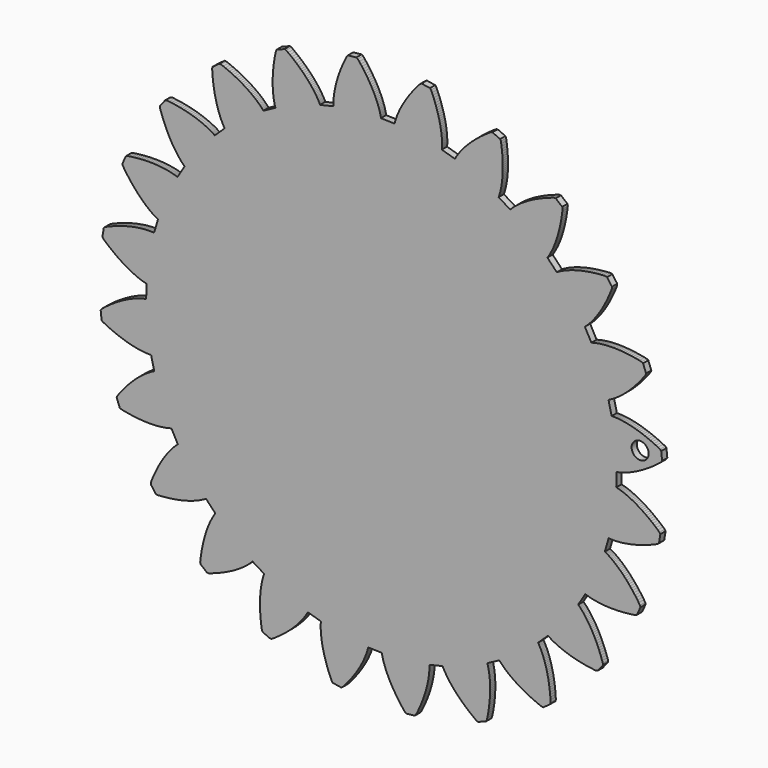
from build123d import *

# Parameters (mm, degrees)
F0_R     = 65.94409
F1_DEPTH = 50.8


with BuildPart() as f1:
    # F0 (on Front) → F1 (new body)
    with BuildSketch(Plane.XZ):
        Polygon((1822.913017, 0), (1823.53265, 3.17406), (1828.204675, 4.03291), (1833.236262, 5.034255), (1838.624009, 6.188151), (1844.364587, 7.50537), (1850.455303, 8.995943), (1856.890774, 10.670667), (1863.667647, 12.54031), (1870.781882, 14.61422), (1878.228095, 16.903192), (1886.001613, 19.416624), (1894.097685, 22.165945), (1902.510978, 25.159233), (1911.236106, 28.407208), (1920.267, 31.919951), (1929.5983, 35.706253), (1939.223274, 39.776121), (1949.135878, 44.138342), (1959.330092, 48.802315), (1969.797813, 53.776778), (1980.533682, 59.071789), (1991.528935, 64.694765), (2002.777579, 70.655104), (2014.271511, 76.961543), (2026.002679, 83.621474), (2037.963666, 90.64432), (2050.14576, 98.037447), (2062.540909, 105.808247), (2075.141671, 113.965507), (2087.937353, 122.516544), (2100.920538, 131.468139), (2114.082462, 140.827684), (2127.412408, 150.602518), (2140.902297, 160.799399), (2154.542732, 171.424397), (2168.322943, 182.484852), (2175.556812, 193.393441), (2168.787992, 258.470578), (2159.464083, 267.656716), (2143.702698, 275.64461), (2128.167778, 283.235324), (2112.868088, 290.437595), (2097.811654, 297.260162), (2083.005232, 303.711077), (2068.45822, 309.798441), (2054.176003, 315.532973), (2040.166608, 320.922752), (2026.437476, 325.976488), (2012.993967, 330.703631), (1999.844108, 335.114925), (1986.993334, 339.218397), (1974.447664, 343.024181), (1962.21383, 346.542309), (1950.29582, 349.782232), (1938.700415, 352.754006), (1927.432975, 355.468377), (1916.497513, 357.934108), (1905.899414, 360.163262), (1895.642716, 362.164605), (1885.732119, 363.949539), (1876.17166, 365.528835), (1866.964668, 366.91189), (1858.115232, 368.109475), (1849.626679, 369.133679), (1841.502362, 369.993875), (1833.744313, 370.700884), (1826.355885, 371.26672), (1819.33911, 371.701543), (1812.696654, 372.016045), (1806.429864, 372.221023), (1800.540747, 372.328567), (1795.030675, 372.348709), (1789.900992, 372.293617), (1785.152335, 372.172636), (1783.892927, 375.151142), (1760.798891, 471.804848), (1760.576464, 475.030648), (1764.866092, 477.069607), (1769.466895, 479.339097), (1774.372804, 481.84849), (1779.577086, 484.606549), (1785.073722, 487.622672), (1790.856642, 490.906283), (1796.919114, 494.465407), (1803.253798, 498.310154), (1809.853911, 502.448601), (1816.712089, 506.88809), (1823.82094, 511.638753), (1831.173097, 516.707984), (1838.759772, 522.103807), (1846.57426, 527.834301), (1854.607187, 533.906197), (1862.851113, 540.328231), (1871.297324, 547.10777), (1879.936423, 554.250911), (1888.760332, 561.765679), (1897.759654, 569.658805), (1906.924939, 577.936335), (1916.247501, 586.604999), (1925.717256, 595.670843), (1935.325441, 605.140598), (1945.060626, 615.019598), (1954.914785, 625.313278), (1964.876436, 636.028294), (1974.936233, 647.168734), (1985.083406, 658.739958), (1995.30716, 670.746639), (2005.597462, 683.193528), (2015.944228, 696.085984), (2026.335317, 709.426674), (2036.760036, 723.220321), (2047.208275, 737.470306), (2051.37225, 749.878866), (2027.991245, 810.986948), (2016.607524, 817.447286), (1999.315229, 821.083042), (1982.345489, 824.394846), (1965.703054, 827.392173), (1949.393942, 830.08437), (1933.422879, 832.483552), (1917.795225, 834.599144), (1902.515677, 836.441202), (1887.58896, 838.021184), (1873.019114, 839.349807), (1858.810811, 840.436495), (1844.967405, 841.294025), (1831.492298, 841.931108), (1818.388845, 842.360545), (1805.661032, 842.592397), (1793.310917, 842.637431), (1781.341878, 842.507053), (1769.755185, 842.212032), (1758.554268, 841.763772), (1747.740447, 841.17373), (1737.315067, 840.452624), (1727.280137, 839.611884), (1717.636341, 838.662305), (1708.385687, 837.615267), (1699.527513, 836.482198), (1691.063826, 835.273869), (1682.993281, 834.002371), (1675.316538, 832.677761), (1668.033621, 831.31152), (1661.143185, 829.915688), (1654.645891, 828.50035), (1648.539045, 827.076299), (1642.823334, 825.656286), (1637.495379, 824.249685), (1632.555206, 822.868662), (1627.999436, 821.523224), (1626.011531, 824.073612), (1578.689045, 911.456521), (1577.638653, 914.51496), (1581.254902, 917.594939), (1585.11174, 920.97799), (1589.201114, 924.670871), (1593.514288, 928.682293), (1598.043184, 933.018302), (1602.779065, 937.686974), (1607.713193, 942.69367), (1612.837491, 948.047151), (1618.141265, 953.752118), (1623.617047, 959.816622), (1629.254146, 966.244702), (1635.04311, 973.043749), (1640.975204, 980.219807), (1647.040394, 987.776917), (1653.227885, 995.721808), (1659.528939, 1004.058469), (1665.932152, 1012.792996), (1672.4281, 1021.928741), (1679.006726, 1031.471064), (1685.656573, 1041.424003), (1692.367583, 1051.791572), (1699.128326, 1062.57786), (1705.92938, 1073.786168), (1712.758678, 1085.419876), (1719.606111, 1097.482336), (1726.45959, 1109.975606), (1733.30903, 1122.903672), (1740.142341, 1136.267882), (1746.948779, 1150.070954), (1753.716914, 1164.314867), (1760.435316, 1179.001681), (1767.091894, 1194.132029), (1773.676564, 1209.707258), (1780.176551, 1225.7294), (1786.580425, 1242.198455), (1787.390253, 1255.261599), (1748.989771, 1308.235966), (1736.322461, 1311.529635), (1718.678681, 1310.566594), (1701.429389, 1309.373048), (1684.578622, 1307.960427), (1668.127703, 1306.340136), (1652.080033, 1304.524264), (1636.437596, 1302.522262), (1621.201736, 1300.347539), (1606.375146, 1298.01018), (1591.957827, 1295.522276), (1577.952496, 1292.895255), (1564.358441, 1290.139889), (1551.17767, 1287.268266), (1538.410233, 1284.291793), (1526.055419, 1281.221237), (1514.114574, 1278.068005), (1502.587038, 1274.844237), (1491.47149, 1271.560627), (1480.76854, 1268.229315), (1470.475545, 1264.860386), (1460.592507, 1261.465219), (1451.116732, 1258.055955), (1442.04751, 1254.642652), (1433.382884, 1251.236741), (1425.120137, 1247.849651), (1417.257237, 1244.492126), (1409.790856, 1241.174937), (1402.718302, 1237.908827), (1396.037543, 1234.704516), (1389.743195, 1231.572137), (1383.83325, 1228.52307), (1378.303695, 1225.56811), (1373.149806, 1222.71663), (1368.367571, 1219.979424), (1363.952924, 1217.365841), (1359.901166, 1214.887359), (1357.320526, 1216.836936), (1288.994069, 1288.994069), (1287.188282, 1291.676843), (1289.883857, 1295.587452), (1292.733965, 1299.853585), (1295.727914, 1304.479255), (1298.855594, 1309.469822), (1302.108292, 1314.830695), (1305.474529, 1320.565228), (1308.944956, 1326.679465), (1312.508805, 1333.176099), (1316.155305, 1340.059829), (1319.874373, 1347.334008), (1323.655951, 1355.002675), (1327.487947, 1363.068521), (1331.360914, 1371.5349), (1335.262785, 1380.404504), (1339.184139, 1389.680025), (1343.112224, 1399.36347), (1347.036955, 1409.457532), (1350.946904, 1419.963556), (1354.831301, 1430.883575), (1358.678741, 1442.218223), (1362.477793, 1453.969533), (1366.217029, 1466.13819), (1369.885017, 1478.724856), (1373.47038, 1491.729554), (1376.962296, 1505.152895), (1380.348725, 1518.994955), (1383.618874, 1533.254998), (1386.760676, 1547.932388), (1389.762676, 1563.027125), (1392.613471, 1578.537153), (1395.301654, 1594.461861), (1397.815746, 1610.799877), (1400.144368, 1627.549171), (1402.276088, 1644.707048), (1404.199478, 1662.272215), (1401.600702, 1675.100815), (1350.798365, 1716.331238), (1337.709694, 1716.233804), (1320.916053, 1710.736507), (1304.563914, 1705.119577), (1288.652668, 1699.393782), (1273.182264, 1693.571213), (1258.151383, 1687.6633), (1243.560022, 1681.681447), (1229.406152, 1675.637111), (1215.68911, 1669.542356), (1202.407552, 1663.407976), (1189.558784, 1657.244666), (1177.141461, 1651.065253), (1165.152915, 1644.879768), (1153.591114, 1638.700355), (1142.45202, 1632.536384), (1131.734287, 1626.400633), (1121.433901, 1620.303211), (1111.546824, 1614.254836), (1102.070389, 1608.266278), (1093.000506, 1602.348281), (1084.332502, 1596.510929), (1076.062364, 1590.764967), (1068.186027, 1585.121163), (1060.697472, 1579.588916), (1053.593321, 1574.17897), (1046.866867, 1568.900088), (1040.513388, 1563.763675), (1034.527497, 1558.778467), (1028.903175, 1553.95389), (1023.634376, 1549.299314), (1018.715031, 1544.824876), (1014.138434, 1540.539261), (1009.898514, 1536.450547), (1005.987904, 1532.568842), (1002.399875, 1528.902175), (999.127694, 1525.459306), (996.130393, 1526.674366), (911.456521, 1578.689045), (909.017664, 1580.812688), (910.609736, 1585.288498), (912.258247, 1590.14602), (913.952477, 1595.389291), (915.682319, 1601.019658), (917.436341, 1607.039128), (919.2038, 1613.449732), (920.973977, 1620.253478), (922.734705, 1627.451711), (924.475291, 1635.044457), (926.184965, 1643.033671), (927.852983, 1651.419405), (929.467229, 1660.202318), (931.016274, 1669.382412), (932.490083, 1678.960345), (933.876491, 1688.934113), (935.164805, 1699.304399), (936.343568, 1710.070494), (937.401351, 1721.230441), (938.326749, 1732.783504), (939.109018, 1744.727702), (939.737364, 1757.062348), (940.199745, 1769.784091), (940.484682, 1782.890922), (940.582803, 1796.380812), (940.48133, 1810.250405), (940.170154, 1824.497011), (939.637897, 1839.117302), (938.873789, 1854.107849), (937.8664, 1869.465349), (936.605645, 1885.185079), (935.080782, 1901.263), (933.281065, 1917.694412), (931.195039, 1934.475303), (928.813332, 1951.600948), (926.124488, 1969.065277), (920.294527, 1980.783669), (860.551365, 2007.460374), (847.934448, 2003.979203), (833.136104, 1994.323291), (818.79473, 1984.664712), (804.907661, 1975.016218), (791.470858, 1965.387865), (778.481654, 1955.79111), (765.935298, 1946.236697), (753.828464, 1936.73537), (742.156453, 1927.297212), (730.91454, 1917.93434), (720.099373, 1908.656127), (709.704219, 1899.473341), (699.725067, 1890.396092), (690.156557, 1881.433728), (680.992593, 1872.597728), (672.227815, 1863.896806), (663.856203, 1855.341044), (655.872348, 1846.939867), (648.268198, 1838.702647), (641.039053, 1830.638808), (634.177497, 1822.757111), (627.676164, 1815.066931), (621.529008, 1807.57637), (615.727267, 1800.294799), (610.265582, 1793.229611), (605.134553, 1786.390255), (600.327425, 1779.784756), (595.835511, 1773.419847), (591.651369, 1767.303577), (587.766973, 1761.444737), (584.172898, 1755.84932), (580.861754, 1750.524718), (577.824117, 1745.478373), (575.051936, 1740.71694), (572.535152, 1736.24654), (570.264976, 1732.073828), (567.055991, 1732.472354), (471.804848, 1760.798891), (468.899596, 1762.218929), (469.27864, 1766.954124), (469.61331, 1772.073062), (469.893548, 1777.575744), (470.107264, 1783.462168), (470.243687, 1789.730965), (470.291389, 1796.380812), (470.239649, 1803.410363), (470.077698, 1810.818959), (469.794082, 1818.603881), (469.378106, 1826.763149), (468.81829, 1835.294729), (468.103915, 1844.195905), (467.224872, 1853.464695), (466.169096, 1863.097087), (464.927163, 1873.090336), (463.487643, 1883.440455), (461.839132, 1894.144726), (459.972867, 1905.198476), (457.876783, 1916.59698), (455.540745, 1928.33686), (452.955406, 1940.413467), (450.109311, 1952.821367), (446.992375, 1965.555886), (443.595887, 1978.610953), (439.907731, 1991.981894), (435.919829, 2005.662664), (431.621438, 2019.647167), (427.003845, 2033.929409), (422.056281, 2048.502634), (416.770007, 2063.36011), (411.135601, 2078.495843), (405.144351, 2093.90173), (398.786172, 2109.571041), (392.052988, 2125.496409), (384.93606, 2141.669783), (376.272095, 2151.480228), (311.660007, 2161.785339), (300.37372, 2155.15698), (288.578722, 2141.999755), (277.225912, 2128.958785), (266.309272, 2116.044815), (255.822729, 2103.266634), (245.75958, 2090.634935), (236.113777, 2078.15848), (226.878566, 2065.847354), (218.046605, 2053.710955), (209.611824, 2041.757334), (201.565459, 2029.99594), (193.901492, 2018.435486), (186.61187, 2007.084022), (179.68915, 1995.950974), (173.124647, 1985.044417), (166.910283, 1974.371718), (161.038667, 1963.940294), (155.500349, 1953.758856), (150.288015, 1943.834822), (145.392191, 1934.174211), (140.804163, 1924.785127), (136.515196, 1915.674248), (132.515204, 1906.848333), (128.796796, 1898.313399), (125.349203, 1890.075519), (122.163053, 1882.140737), (119.229607, 1874.515733), (116.53807, 1867.205283), (114.079757, 1860.215355), (111.843871, 1853.550065), (109.821015, 1847.215381), (108.000444, 1841.215393), (106.372101, 1835.5548), (104.926536, 1830.237615), (103.652345, 1825.268536), (102.54013, 1820.650258), (99.337165, 1820.204691), (0, 1822.913017), (-3.17406, 1823.53265), (-4.03291, 1828.204675), (-5.034255, 1833.236262), (-6.188151, 1838.624009), (-7.50537, 1844.364587), (-8.995943, 1850.455303), (-10.670667, 1856.890774), (-12.54031, 1863.667647), (-14.61422, 1870.781882), (-16.903192, 1878.228095), (-19.416624, 1886.001613), (-22.165945, 1894.097685), (-25.159233, 1902.510978), (-28.407208, 1911.236106), (-31.919951, 1920.267), (-35.706253, 1929.5983), (-39.776121, 1939.223274), (-44.138342, 1949.135878), (-48.802315, 1959.330092), (-53.776778, 1969.797813), (-59.071789, 1980.533682), (-64.694765, 1991.528935), (-70.655104, 2002.777579), (-76.961543, 2014.271511), (-83.621474, 2026.002679), (-90.64432, 2037.963666), (-98.037447, 2050.14576), (-105.808247, 2062.540909), (-113.965507, 2075.141671), (-122.516544, 2087.937353), (-131.468139, 2100.920538), (-140.827684, 2114.082462), (-150.602518, 2127.412408), (-160.799399, 2140.902297), (-171.424397, 2154.542732), (-182.484852, 2168.322943), (-193.393441, 2175.556812), (-258.470578, 2168.787992), (-267.656716, 2159.464083), (-275.64461, 2143.702698), (-283.235324, 2128.167778), (-290.437595, 2112.868088), (-297.260162, 2097.811654), (-303.711077, 2083.005232), (-309.798441, 2068.45822), (-315.532973, 2054.176003), (-320.922752, 2040.166608), (-325.976488, 2026.437476), (-330.703631, 2012.993967), (-335.114925, 1999.844108), (-339.218397, 1986.993334), (-343.024181, 1974.447664), (-346.542309, 1962.21383), (-349.782232, 1950.29582), (-352.754006, 1938.700415), (-355.468377, 1927.432975), (-357.934108, 1916.497513), (-360.163262, 1905.899414), (-362.164605, 1895.642716), (-363.949539, 1885.732119), (-365.528835, 1876.17166), (-366.91189, 1866.964668), (-368.109475, 1858.115232), (-369.133679, 1849.626679), (-369.993875, 1841.502362), (-370.700884, 1833.744313), (-371.26672, 1826.355885), (-371.701543, 1819.33911), (-372.016045, 1812.696654), (-372.221023, 1806.429864), (-372.328567, 1800.540747), (-372.348709, 1795.030675), (-372.293617, 1789.900992), (-372.172636, 1785.152335), (-375.151142, 1783.892927), (-471.804848, 1760.798891), (-475.030648, 1760.576464), (-477.069607, 1764.866092), (-479.339097, 1769.466895), (-481.84849, 1774.372804), (-484.606549, 1779.577086), (-487.622672, 1785.073722), (-490.906283, 1790.856642), (-494.465407, 1796.919114), (-498.310154, 1803.253798), (-502.448601, 1809.853911), (-506.88809, 1816.712089), (-511.638753, 1823.82094), (-516.707984, 1831.173097), (-522.103807, 1838.759772), (-527.834301, 1846.57426), (-533.906197, 1854.607187), (-540.328231, 1862.851113), (-547.10777, 1871.297324), (-554.250911, 1879.936423), (-561.765679, 1888.760332), (-569.658805, 1897.759654), (-577.936335, 1906.924939), (-586.604999, 1916.247501), (-595.670843, 1925.717256), (-605.140598, 1935.325441), (-615.019598, 1945.060626), (-625.313278, 1954.914785), (-636.028294, 1964.876436), (-647.168734, 1974.936233), (-658.739958, 1985.083406), (-670.746639, 1995.30716), (-683.193528, 2005.597462), (-696.085984, 2015.944228), (-709.426674, 2026.335317), (-723.220321, 2036.760036), (-737.470306, 2047.208275), (-749.878866, 2051.37225), (-810.986948, 2027.991245), (-817.447286, 2016.607524), (-821.083042, 1999.315229), (-824.394846, 1982.345489), (-827.392173, 1965.703054), (-830.08437, 1949.393942), (-832.483552, 1933.422879), (-834.599144, 1917.795225), (-836.441202, 1902.515677), (-838.021184, 1887.58896), (-839.349807, 1873.019114), (-840.436495, 1858.810811), (-841.294025, 1844.967405), (-841.931108, 1831.492298), (-842.360545, 1818.388845), (-842.592397, 1805.661032), (-842.637431, 1793.310917), (-842.507053, 1781.341878), (-842.212032, 1769.755185), (-841.763772, 1758.554268), (-841.17373, 1747.740447), (-840.452624, 1737.315067), (-839.611884, 1727.280137), (-838.662305, 1717.636341), (-837.615267, 1708.385687), (-836.482198, 1699.527513), (-835.273869, 1691.063826), (-834.002371, 1682.993281), (-832.677761, 1675.316538), (-831.31152, 1668.033621), (-829.915688, 1661.143185), (-828.50035, 1654.645891), (-827.076299, 1648.539045), (-825.656286, 1642.823334), (-824.249685, 1637.495379), (-822.868662, 1632.555206), (-821.523224, 1627.999436), (-824.073612, 1626.011531), (-911.456521, 1578.689045), (-914.51496, 1577.638653), (-917.594939, 1581.254902), (-920.97799, 1585.11174), (-924.670871, 1589.201114), (-928.682293, 1593.514288), (-933.018302, 1598.043184), (-937.686974, 1602.779065), (-942.69367, 1607.713193), (-948.047151, 1612.837491), (-953.752118, 1618.141265), (-959.816622, 1623.617047), (-966.244702, 1629.254146), (-973.043749, 1635.04311), (-980.219807, 1640.975204), (-987.776917, 1647.040394), (-995.721808, 1653.227885), (-1004.058469, 1659.528939), (-1012.792996, 1665.932152), (-1021.928741, 1672.4281), (-1031.471064, 1679.006726), (-1041.424003, 1685.656573), (-1051.791572, 1692.367583), (-1062.57786, 1699.128326), (-1073.786168, 1705.92938), (-1085.419876, 1712.758678), (-1097.482336, 1719.606111), (-1109.975606, 1726.45959), (-1122.903672, 1733.30903), (-1136.267882, 1740.142341), (-1150.070954, 1746.948779), (-1164.314867, 1753.716914), (-1179.001681, 1760.435316), (-1194.132029, 1767.091894), (-1209.707258, 1773.676564), (-1225.7294, 1780.176551), (-1242.198455, 1786.580425), (-1255.261599, 1787.390253), (-1308.235966, 1748.989771), (-1311.529635, 1736.322461), (-1310.566594, 1718.678681), (-1309.373048, 1701.429389), (-1307.960427, 1684.578622), (-1306.340136, 1668.127703), (-1304.524264, 1652.080033), (-1302.522262, 1636.437596), (-1300.347539, 1621.201736), (-1298.01018, 1606.375146), (-1295.522276, 1591.957827), (-1292.895255, 1577.952496), (-1290.139889, 1564.358441), (-1287.268266, 1551.17767), (-1284.291793, 1538.410233), (-1281.221237, 1526.055419), (-1278.068005, 1514.114574), (-1274.844237, 1502.587038), (-1271.560627, 1491.47149), (-1268.229315, 1480.76854), (-1264.860386, 1470.475545), (-1261.465219, 1460.592507), (-1258.055955, 1451.116732), (-1254.642652, 1442.04751), (-1251.236741, 1433.382884), (-1247.849651, 1425.120137), (-1244.492126, 1417.257237), (-1241.174937, 1409.790856), (-1237.908827, 1402.718302), (-1234.704516, 1396.037543), (-1231.572137, 1389.743195), (-1228.52307, 1383.83325), (-1225.56811, 1378.303695), (-1222.71663, 1373.149806), (-1219.979424, 1368.367571), (-1217.365841, 1363.952924), (-1214.887359, 1359.901166), (-1216.836936, 1357.320526), (-1288.994069, 1288.994069), (-1291.676843, 1287.188282), (-1295.587452, 1289.883857), (-1299.853585, 1292.733965), (-1304.479255, 1295.727914), (-1309.469822, 1298.855594), (-1314.830695, 1302.108292), (-1320.565228, 1305.474529), (-1326.679465, 1308.944956), (-1333.176099, 1312.508805), (-1340.059829, 1316.155305), (-1347.334008, 1319.874373), (-1355.002675, 1323.655951), (-1363.068521, 1327.487947), (-1371.5349, 1331.360914), (-1380.404504, 1335.262785), (-1389.680025, 1339.184139), (-1399.36347, 1343.112224), (-1409.457532, 1347.036955), (-1419.963556, 1350.946904), (-1430.883575, 1354.831301), (-1442.218223, 1358.678741), (-1453.969533, 1362.477793), (-1466.13819, 1366.217029), (-1478.724856, 1369.885017), (-1491.729554, 1373.47038), (-1505.152895, 1376.962296), (-1518.994955, 1380.348725), (-1533.254998, 1383.618874), (-1547.932388, 1386.760676), (-1563.027125, 1389.762676), (-1578.537153, 1392.613471), (-1594.461861, 1395.301654), (-1610.799877, 1397.815746), (-1627.549171, 1400.144368), (-1644.707048, 1402.276088), (-1662.272215, 1404.199478), (-1675.100815, 1401.600702), (-1716.331238, 1350.798365), (-1716.233804, 1337.709694), (-1710.736507, 1320.916053), (-1705.119577, 1304.563914), (-1699.393782, 1288.652668), (-1693.571213, 1273.182264), (-1687.6633, 1258.151383), (-1681.681447, 1243.560022), (-1675.637111, 1229.406152), (-1669.542356, 1215.68911), (-1663.407976, 1202.407552), (-1657.244666, 1189.558784), (-1651.065253, 1177.141461), (-1644.879768, 1165.152915), (-1638.700355, 1153.591114), (-1632.536384, 1142.45202), (-1626.400633, 1131.734287), (-1620.303211, 1121.433901), (-1614.254836, 1111.546824), (-1608.266278, 1102.070389), (-1602.348281, 1093.000506), (-1596.510929, 1084.332502), (-1590.764967, 1076.062364), (-1585.121163, 1068.186027), (-1579.588916, 1060.697472), (-1574.17897, 1053.593321), (-1568.900088, 1046.866867), (-1563.763675, 1040.513388), (-1558.778467, 1034.527497), (-1553.95389, 1028.903175), (-1549.299314, 1023.634376), (-1544.824876, 1018.715031), (-1540.539261, 1014.138434), (-1536.450547, 1009.898514), (-1532.568842, 1005.987904), (-1528.902175, 1002.399875), (-1525.459306, 999.127694), (-1526.674366, 996.130393), (-1578.689045, 911.456521), (-1580.812688, 909.017664), (-1585.288498, 910.609736), (-1590.14602, 912.258247), (-1595.389291, 913.952477), (-1601.019658, 915.682319), (-1607.039128, 917.436341), (-1613.449732, 919.2038), (-1620.253478, 920.973977), (-1627.451711, 922.734705), (-1635.044457, 924.475291), (-1643.033671, 926.184965), (-1651.419405, 927.852983), (-1660.202318, 929.467229), (-1669.382412, 931.016274), (-1678.960345, 932.490083), (-1688.934113, 933.876491), (-1699.304399, 935.164805), (-1710.070494, 936.343568), (-1721.230441, 937.401351), (-1732.783504, 938.326749), (-1744.727702, 939.109018), (-1757.062348, 939.737364), (-1769.784091, 940.199745), (-1782.890922, 940.484682), (-1796.380812, 940.582803), (-1810.250405, 940.48133), (-1824.497011, 940.170154), (-1839.117302, 939.637897), (-1854.107849, 938.873789), (-1869.465349, 937.8664), (-1885.185079, 936.605645), (-1901.263, 935.080782), (-1917.694412, 933.281065), (-1934.475303, 931.195039), (-1951.600948, 928.813332), (-1969.065277, 926.124488), (-1980.783669, 920.294527), (-2007.460374, 860.551365), (-2003.979203, 847.934448), (-1994.323291, 833.136104), (-1984.664712, 818.79473), (-1975.016218, 804.907661), (-1965.387865, 791.470858), (-1955.79111, 778.481654), (-1946.236697, 765.935298), (-1936.73537, 753.828464), (-1927.297212, 742.156453), (-1917.93434, 730.91454), (-1908.656127, 720.099373), (-1899.473341, 709.704219), (-1890.396092, 699.725067), (-1881.433728, 690.156557), (-1872.597728, 680.992593), (-1863.896806, 672.227815), (-1855.341044, 663.856203), (-1846.939867, 655.872348), (-1838.702647, 648.268198), (-1830.638808, 641.039053), (-1822.757111, 634.177497), (-1815.066931, 627.676164), (-1807.57637, 621.529008), (-1800.294799, 615.727267), (-1793.229611, 610.265582), (-1786.390255, 605.134553), (-1779.784756, 600.327425), (-1773.419847, 595.835511), (-1767.303577, 591.651369), (-1761.444737, 587.766973), (-1755.84932, 584.172898), (-1750.524718, 580.861754), (-1745.478373, 577.824117), (-1740.71694, 575.051936), (-1736.24654, 572.535152), (-1732.073828, 570.264976), (-1732.472354, 567.055991), (-1760.798891, 471.804848), (-1762.218929, 468.899596), (-1766.954124, 469.27864), (-1772.073062, 469.61331), (-1777.575744, 469.893548), (-1783.462168, 470.107264), (-1789.730965, 470.243687), (-1796.380812, 470.291389), (-1803.410363, 470.239649), (-1810.818959, 470.077698), (-1818.603881, 469.794082), (-1826.763149, 469.378106), (-1835.294729, 468.81829), (-1844.195905, 468.103915), (-1853.464695, 467.224872), (-1863.097087, 466.169096), (-1873.090336, 464.927163), (-1883.440455, 463.487643), (-1894.144726, 461.839132), (-1905.198476, 459.972867), (-1916.59698, 457.876783), (-1928.33686, 455.540745), (-1940.413467, 452.955406), (-1952.821367, 450.109311), (-1965.555886, 446.992375), (-1978.610953, 443.595887), (-1991.981894, 439.907731), (-2005.662664, 435.919829), (-2019.647167, 431.621438), (-2033.929409, 427.003845), (-2048.502634, 422.056281), (-2063.36011, 416.770007), (-2078.495843, 411.135601), (-2093.90173, 405.144351), (-2109.571041, 398.786172), (-2125.496409, 392.052988), (-2141.669783, 384.93606), (-2151.480228, 376.272095), (-2161.785339, 311.660007), (-2155.15698, 300.37372), (-2141.999755, 288.578722), (-2128.958785, 277.225912), (-2116.044815, 266.309272), (-2103.266634, 255.822729), (-2090.634935, 245.75958), (-2078.15848, 236.113777), (-2065.847354, 226.878566), (-2053.710955, 218.046605), (-2041.757334, 209.611824), (-2029.99594, 201.565459), (-2018.435486, 193.901492), (-2007.084022, 186.61187), (-1995.950974, 179.68915), (-1985.044417, 173.124647), (-1974.371718, 166.910283), (-1963.940294, 161.038667), (-1953.758856, 155.500349), (-1943.834822, 150.288015), (-1934.174211, 145.392191), (-1924.785127, 140.804163), (-1915.674248, 136.515196), (-1906.848333, 132.515204), (-1898.313399, 128.796796), (-1890.075519, 125.349203), (-1882.140737, 122.163053), (-1874.515733, 119.229607), (-1867.205283, 116.53807), (-1860.215355, 114.079757), (-1853.550065, 111.843871), (-1847.215381, 109.821015), (-1841.215393, 108.000444), (-1835.5548, 106.372101), (-1830.237615, 104.926536), (-1825.268536, 103.652345), (-1820.650258, 102.54013), (-1820.204691, 99.337165), (-1822.913017, 0), (-1823.53265, -3.17406), (-1828.204675, -4.03291), (-1833.236262, -5.034255), (-1838.624009, -6.188151), (-1844.364587, -7.50537), (-1850.455303, -8.995943), (-1856.890774, -10.670667), (-1863.667647, -12.54031), (-1870.781882, -14.61422), (-1878.228095, -16.903192), (-1886.001613, -19.416624), (-1894.097685, -22.165945), (-1902.510978, -25.159233), (-1911.236106, -28.407208), (-1920.267, -31.919951), (-1929.5983, -35.706253), (-1939.223274, -39.776121), (-1949.135878, -44.138342), (-1959.330092, -48.802315), (-1969.797813, -53.776778), (-1980.533682, -59.071789), (-1991.528935, -64.694765), (-2002.777579, -70.655104), (-2014.271511, -76.961543), (-2026.002679, -83.621474), (-2037.963666, -90.64432), (-2050.14576, -98.037447), (-2062.540909, -105.808247), (-2075.141671, -113.965507), (-2087.937353, -122.516544), (-2100.920538, -131.468139), (-2114.082462, -140.827684), (-2127.412408, -150.602518), (-2140.902297, -160.799399), (-2154.542732, -171.424397), (-2168.322943, -182.484852), (-2175.556812, -193.393441), (-2168.787992, -258.470578), (-2159.464083, -267.656716), (-2143.702698, -275.64461), (-2128.167778, -283.235324), (-2112.868088, -290.437595), (-2097.811654, -297.260162), (-2083.005232, -303.711077), (-2068.45822, -309.798441), (-2054.176003, -315.532973), (-2040.166608, -320.922752), (-2026.437476, -325.976488), (-2012.993967, -330.703631), (-1999.844108, -335.114925), (-1986.993334, -339.218397), (-1974.447664, -343.024181), (-1962.21383, -346.542309), (-1950.29582, -349.782232), (-1938.700415, -352.754006), (-1927.432975, -355.468377), (-1916.497513, -357.934108), (-1905.899414, -360.163262), (-1895.642716, -362.164605), (-1885.732119, -363.949539), (-1876.17166, -365.528835), (-1866.964668, -366.91189), (-1858.115232, -368.109475), (-1849.626679, -369.133679), (-1841.502362, -369.993875), (-1833.744313, -370.700884), (-1826.355885, -371.26672), (-1819.33911, -371.701543), (-1812.696654, -372.016045), (-1806.429864, -372.221023), (-1800.540747, -372.328567), (-1795.030675, -372.348709), (-1789.900992, -372.293617), (-1785.152335, -372.172636), (-1783.892927, -375.151142), (-1760.798891, -471.804848), (-1760.576464, -475.030648), (-1764.866092, -477.069607), (-1769.466895, -479.339097), (-1774.372804, -481.84849), (-1779.577086, -484.606549), (-1785.073722, -487.622672), (-1790.856642, -490.906283), (-1796.919114, -494.465407), (-1803.253798, -498.310154), (-1809.853911, -502.448601), (-1816.712089, -506.88809), (-1823.82094, -511.638753), (-1831.173097, -516.707984), (-1838.759772, -522.103807), (-1846.57426, -527.834301), (-1854.607187, -533.906197), (-1862.851113, -540.328231), (-1871.297324, -547.10777), (-1879.936423, -554.250911), (-1888.760332, -561.765679), (-1897.759654, -569.658805), (-1906.924939, -577.936335), (-1916.247501, -586.604999), (-1925.717256, -595.670843), (-1935.325441, -605.140598), (-1945.060626, -615.019598), (-1954.914785, -625.313278), (-1964.876436, -636.028294), (-1974.936233, -647.168734), (-1985.083406, -658.739958), (-1995.30716, -670.746639), (-2005.597462, -683.193528), (-2015.944228, -696.085984), (-2026.335317, -709.426674), (-2036.760036, -723.220321), (-2047.208275, -737.470306), (-2051.37225, -749.878866), (-2027.991245, -810.986948), (-2016.607524, -817.447286), (-1999.315229, -821.083042), (-1982.345489, -824.394846), (-1965.703054, -827.392173), (-1949.393942, -830.08437), (-1933.422879, -832.483552), (-1917.795225, -834.599144), (-1902.515677, -836.441202), (-1887.58896, -838.021184), (-1873.019114, -839.349807), (-1858.810811, -840.436495), (-1844.967405, -841.294025), (-1831.492298, -841.931108), (-1818.388845, -842.360545), (-1805.661032, -842.592397), (-1793.310917, -842.637431), (-1781.341878, -842.507053), (-1769.755185, -842.212032), (-1758.554268, -841.763772), (-1747.740447, -841.17373), (-1737.315067, -840.452624), (-1727.280137, -839.611884), (-1717.636341, -838.662305), (-1708.385687, -837.615267), (-1699.527513, -836.482198), (-1691.063826, -835.273869), (-1682.993281, -834.002371), (-1675.316538, -832.677761), (-1668.033621, -831.31152), (-1661.143185, -829.915688), (-1654.645891, -828.50035), (-1648.539045, -827.076299), (-1642.823334, -825.656286), (-1637.495379, -824.249685), (-1632.555206, -822.868662), (-1627.999436, -821.523224), (-1626.011531, -824.073612), (-1578.689045, -911.456521), (-1577.638653, -914.51496), (-1581.254902, -917.594939), (-1585.11174, -920.97799), (-1589.201114, -924.670871), (-1593.514288, -928.682293), (-1598.043184, -933.018302), (-1602.779065, -937.686974), (-1607.713193, -942.69367), (-1612.837491, -948.047151), (-1618.141265, -953.752118), (-1623.617047, -959.816622), (-1629.254146, -966.244702), (-1635.04311, -973.043749), (-1640.975204, -980.219807), (-1647.040394, -987.776917), (-1653.227885, -995.721808), (-1659.528939, -1004.058469), (-1665.932152, -1012.792996), (-1672.4281, -1021.928741), (-1679.006726, -1031.471064), (-1685.656573, -1041.424003), (-1692.367583, -1051.791572), (-1699.128326, -1062.57786), (-1705.92938, -1073.786168), (-1712.758678, -1085.419876), (-1719.606111, -1097.482336), (-1726.45959, -1109.975606), (-1733.30903, -1122.903672), (-1740.142341, -1136.267882), (-1746.948779, -1150.070954), (-1753.716914, -1164.314867), (-1760.435316, -1179.001681), (-1767.091894, -1194.132029), (-1773.676564, -1209.707258), (-1780.176551, -1225.7294), (-1786.580425, -1242.198455), (-1787.390253, -1255.261599), (-1748.989771, -1308.235966), (-1736.322461, -1311.529635), (-1718.678681, -1310.566594), (-1701.429389, -1309.373048), (-1684.578622, -1307.960427), (-1668.127703, -1306.340136), (-1652.080033, -1304.524264), (-1636.437596, -1302.522262), (-1621.201736, -1300.347539), (-1606.375146, -1298.01018), (-1591.957827, -1295.522276), (-1577.952496, -1292.895255), (-1564.358441, -1290.139889), (-1551.17767, -1287.268266), (-1538.410233, -1284.291793), (-1526.055419, -1281.221237), (-1514.114574, -1278.068005), (-1502.587038, -1274.844237), (-1491.47149, -1271.560627), (-1480.76854, -1268.229315), (-1470.475545, -1264.860386), (-1460.592507, -1261.465219), (-1451.116732, -1258.055955), (-1442.04751, -1254.642652), (-1433.382884, -1251.236741), (-1425.120137, -1247.849651), (-1417.257237, -1244.492126), (-1409.790856, -1241.174937), (-1402.718302, -1237.908827), (-1396.037543, -1234.704516), (-1389.743195, -1231.572137), (-1383.83325, -1228.52307), (-1378.303695, -1225.56811), (-1373.149806, -1222.71663), (-1368.367571, -1219.979424), (-1363.952924, -1217.365841), (-1359.901166, -1214.887359), (-1357.320526, -1216.836936), (-1288.994069, -1288.994069), (-1287.188282, -1291.676843), (-1289.883857, -1295.587452), (-1292.733965, -1299.853585), (-1295.727914, -1304.479255), (-1298.855594, -1309.469822), (-1302.108292, -1314.830695), (-1305.474529, -1320.565228), (-1308.944956, -1326.679465), (-1312.508805, -1333.176099), (-1316.155305, -1340.059829), (-1319.874373, -1347.334008), (-1323.655951, -1355.002675), (-1327.487947, -1363.068521), (-1331.360914, -1371.5349), (-1335.262785, -1380.404504), (-1339.184139, -1389.680025), (-1343.112224, -1399.36347), (-1347.036955, -1409.457532), (-1350.946904, -1419.963556), (-1354.831301, -1430.883575), (-1358.678741, -1442.218223), (-1362.477793, -1453.969533), (-1366.217029, -1466.13819), (-1369.885017, -1478.724856), (-1373.47038, -1491.729554), (-1376.962296, -1505.152895), (-1380.348725, -1518.994955), (-1383.618874, -1533.254998), (-1386.760676, -1547.932388), (-1389.762676, -1563.027125), (-1392.613471, -1578.537153), (-1395.301654, -1594.461861), (-1397.815746, -1610.799877), (-1400.144368, -1627.549171), (-1402.276088, -1644.707048), (-1404.199478, -1662.272215), (-1401.600702, -1675.100815), (-1350.798365, -1716.331238), (-1337.709694, -1716.233804), (-1320.916053, -1710.736507), (-1304.563914, -1705.119577), (-1288.652668, -1699.393782), (-1273.182264, -1693.571213), (-1258.151383, -1687.6633), (-1243.560022, -1681.681447), (-1229.406152, -1675.637111), (-1215.68911, -1669.542356), (-1202.407552, -1663.407976), (-1189.558784, -1657.244666), (-1177.141461, -1651.065253), (-1165.152915, -1644.879768), (-1153.591114, -1638.700355), (-1142.45202, -1632.536384), (-1131.734287, -1626.400633), (-1121.433901, -1620.303211), (-1111.546824, -1614.254836), (-1102.070389, -1608.266278), (-1093.000506, -1602.348281), (-1084.332502, -1596.510929), (-1076.062364, -1590.764967), (-1068.186027, -1585.121163), (-1060.697472, -1579.588916), (-1053.593321, -1574.17897), (-1046.866867, -1568.900088), (-1040.513388, -1563.763675), (-1034.527497, -1558.778467), (-1028.903175, -1553.95389), (-1023.634376, -1549.299314), (-1018.715031, -1544.824876), (-1014.138434, -1540.539261), (-1009.898514, -1536.450547), (-1005.987904, -1532.568842), (-1002.399875, -1528.902175), (-999.127694, -1525.459306), (-996.130393, -1526.674366), (-911.456521, -1578.689045), (-909.017664, -1580.812688), (-910.609736, -1585.288498), (-912.258247, -1590.14602), (-913.952477, -1595.389291), (-915.682319, -1601.019658), (-917.436341, -1607.039128), (-919.2038, -1613.449732), (-920.973977, -1620.253478), (-922.734705, -1627.451711), (-924.475291, -1635.044457), (-926.184965, -1643.033671), (-927.852983, -1651.419405), (-929.467229, -1660.202318), (-931.016274, -1669.382412), (-932.490083, -1678.960345), (-933.876491, -1688.934113), (-935.164805, -1699.304399), (-936.343568, -1710.070494), (-937.401351, -1721.230441), (-938.326749, -1732.783504), (-939.109018, -1744.727702), (-939.737364, -1757.062348), (-940.199745, -1769.784091), (-940.484682, -1782.890922), (-940.582803, -1796.380812), (-940.48133, -1810.250405), (-940.170154, -1824.497011), (-939.637897, -1839.117302), (-938.873789, -1854.107849), (-937.8664, -1869.465349), (-936.605645, -1885.185079), (-935.080782, -1901.263), (-933.281065, -1917.694412), (-931.195039, -1934.475303), (-928.813332, -1951.600948), (-926.124488, -1969.065277), (-920.294527, -1980.783669), (-860.551365, -2007.460374), (-847.934448, -2003.979203), (-833.136104, -1994.323291), (-818.79473, -1984.664712), (-804.907661, -1975.016218), (-791.470858, -1965.387865), (-778.481654, -1955.79111), (-765.935298, -1946.236697), (-753.828464, -1936.73537), (-742.156453, -1927.297212), (-730.91454, -1917.93434), (-720.099373, -1908.656127), (-709.704219, -1899.473341), (-699.725067, -1890.396092), (-690.156557, -1881.433728), (-680.992593, -1872.597728), (-672.227815, -1863.896806), (-663.856203, -1855.341044), (-655.872348, -1846.939867), (-648.268198, -1838.702647), (-641.039053, -1830.638808), (-634.177497, -1822.757111), (-627.676164, -1815.066931), (-621.529008, -1807.57637), (-615.727267, -1800.294799), (-610.265582, -1793.229611), (-605.134553, -1786.390255), (-600.327425, -1779.784756), (-595.835511, -1773.419847), (-591.651369, -1767.303577), (-587.766973, -1761.444737), (-584.172898, -1755.84932), (-580.861754, -1750.524718), (-577.824117, -1745.478373), (-575.051936, -1740.71694), (-572.535152, -1736.24654), (-570.264976, -1732.073828), (-567.055991, -1732.472354), (-471.804848, -1760.798891), (-468.899596, -1762.218929), (-469.27864, -1766.954124), (-469.61331, -1772.073062), (-469.893548, -1777.575744), (-470.107264, -1783.462168), (-470.243687, -1789.730965), (-470.291389, -1796.380812), (-470.239649, -1803.410363), (-470.077698, -1810.818959), (-469.794082, -1818.603881), (-469.378106, -1826.763149), (-468.81829, -1835.294729), (-468.103915, -1844.195905), (-467.224872, -1853.464695), (-466.169096, -1863.097087), (-464.927163, -1873.090336), (-463.487643, -1883.440455), (-461.839132, -1894.144726), (-459.972867, -1905.198476), (-457.876783, -1916.59698), (-455.540745, -1928.33686), (-452.955406, -1940.413467), (-450.109311, -1952.821367), (-446.992375, -1965.555886), (-443.595887, -1978.610953), (-439.907731, -1991.981894), (-435.919829, -2005.662664), (-431.621438, -2019.647167), (-427.003845, -2033.929409), (-422.056281, -2048.502634), (-416.770007, -2063.36011), (-411.135601, -2078.495843), (-405.144351, -2093.90173), (-398.786172, -2109.571041), (-392.052988, -2125.496409), (-384.93606, -2141.669783), (-376.272095, -2151.480228), (-311.660007, -2161.785339), (-300.37372, -2155.15698), (-288.578722, -2141.999755), (-277.225912, -2128.958785), (-266.309272, -2116.044815), (-255.822729, -2103.266634), (-245.75958, -2090.634935), (-236.113777, -2078.15848), (-226.878566, -2065.847354), (-218.046605, -2053.710955), (-209.611824, -2041.757334), (-201.565459, -2029.99594), (-193.901492, -2018.435486), (-186.61187, -2007.084022), (-179.68915, -1995.950974), (-173.124647, -1985.044417), (-166.910283, -1974.371718), (-161.038667, -1963.940294), (-155.500349, -1953.758856), (-150.288015, -1943.834822), (-145.392191, -1934.174211), (-140.804163, -1924.785127), (-136.515196, -1915.674248), (-132.515204, -1906.848333), (-128.796796, -1898.313399), (-125.349203, -1890.075519), (-122.163053, -1882.140737), (-119.229607, -1874.515733), (-116.53807, -1867.205283), (-114.079757, -1860.215355), (-111.843871, -1853.550065), (-109.821015, -1847.215381), (-108.000444, -1841.215393), (-106.372101, -1835.5548), (-104.926536, -1830.237615), (-103.652345, -1825.268536), (-102.54013, -1820.650258), (-99.337165, -1820.204691), (0, -1822.913017), (3.17406, -1823.53265), (4.03291, -1828.204675), (5.034255, -1833.236262), (6.188151, -1838.624009), (7.50537, -1844.364587), (8.995943, -1850.455303), (10.670667, -1856.890774), (12.54031, -1863.667647), (14.61422, -1870.781882), (16.903192, -1878.228095), (19.416624, -1886.001613), (22.165945, -1894.097685), (25.159233, -1902.510978), (28.407208, -1911.236106), (31.919951, -1920.267), (35.706253, -1929.5983), (39.776121, -1939.223274), (44.138342, -1949.135878), (48.802315, -1959.330092), (53.776778, -1969.797813), (59.071789, -1980.533682), (64.694765, -1991.528935), (70.655104, -2002.777579), (76.961543, -2014.271511), (83.621474, -2026.002679), (90.64432, -2037.963666), (98.037447, -2050.14576), (105.808247, -2062.540909), (113.965507, -2075.141671), (122.516544, -2087.937353), (131.468139, -2100.920538), (140.827684, -2114.082462), (150.602518, -2127.412408), (160.799399, -2140.902297), (171.424397, -2154.542732), (182.484852, -2168.322943), (193.393441, -2175.556812), (258.470578, -2168.787992), (267.656716, -2159.464083), (275.64461, -2143.702698), (283.235324, -2128.167778), (290.437595, -2112.868088), (297.260162, -2097.811654), (303.711077, -2083.005232), (309.798441, -2068.45822), (315.532973, -2054.176003), (320.922752, -2040.166608), (325.976488, -2026.437476), (330.703631, -2012.993967), (335.114925, -1999.844108), (339.218397, -1986.993334), (343.024181, -1974.447664), (346.542309, -1962.21383), (349.782232, -1950.29582), (352.754006, -1938.700415), (355.468377, -1927.432975), (357.934108, -1916.497513), (360.163262, -1905.899414), (362.164605, -1895.642716), (363.949539, -1885.732119), (365.528835, -1876.17166), (366.91189, -1866.964668), (368.109475, -1858.115232), (369.133679, -1849.626679), (369.993875, -1841.502362), (370.700884, -1833.744313), (371.26672, -1826.355885), (371.701543, -1819.33911), (372.016045, -1812.696654), (372.221023, -1806.429864), (372.328567, -1800.540747), (372.348709, -1795.030675), (372.293617, -1789.900992), (372.172636, -1785.152335), (375.151142, -1783.892927), (471.804848, -1760.798891), (475.030648, -1760.576464), (477.069607, -1764.866092), (479.339097, -1769.466895), (481.84849, -1774.372804), (484.606549, -1779.577086), (487.622672, -1785.073722), (490.906283, -1790.856642), (494.465407, -1796.919114), (498.310154, -1803.253798), (502.448601, -1809.853911), (506.88809, -1816.712089), (511.638753, -1823.82094), (516.707984, -1831.173097), (522.103807, -1838.759772), (527.834301, -1846.57426), (533.906197, -1854.607187), (540.328231, -1862.851113), (547.10777, -1871.297324), (554.250911, -1879.936423), (561.765679, -1888.760332), (569.658805, -1897.759654), (577.936335, -1906.924939), (586.604999, -1916.247501), (595.670843, -1925.717256), (605.140598, -1935.325441), (615.019598, -1945.060626), (625.313278, -1954.914785), (636.028294, -1964.876436), (647.168734, -1974.936233), (658.739958, -1985.083406), (670.746639, -1995.30716), (683.193528, -2005.597462), (696.085984, -2015.944228), (709.426674, -2026.335317), (723.220321, -2036.760036), (737.470306, -2047.208275), (749.878866, -2051.37225), (810.986948, -2027.991245), (817.447286, -2016.607524), (821.083042, -1999.315229), (824.394846, -1982.345489), (827.392173, -1965.703054), (830.08437, -1949.393942), (832.483552, -1933.422879), (834.599144, -1917.795225), (836.441202, -1902.515677), (838.021184, -1887.58896), (839.349807, -1873.019114), (840.436495, -1858.810811), (841.294025, -1844.967405), (841.931108, -1831.492298), (842.360545, -1818.388845), (842.592397, -1805.661032), (842.637431, -1793.310917), (842.507053, -1781.341878), (842.212032, -1769.755185), (841.763772, -1758.554268), (841.17373, -1747.740447), (840.452624, -1737.315067), (839.611884, -1727.280137), (838.662305, -1717.636341), (837.615267, -1708.385687), (836.482198, -1699.527513), (835.273869, -1691.063826), (834.002371, -1682.993281), (832.677761, -1675.316538), (831.31152, -1668.033621), (829.915688, -1661.143185), (828.50035, -1654.645891), (827.076299, -1648.539045), (825.656286, -1642.823334), (824.249685, -1637.495379), (822.868662, -1632.555206), (821.523224, -1627.999436), (824.073612, -1626.011531), (911.456521, -1578.689045), (914.51496, -1577.638653), (917.594939, -1581.254902), (920.97799, -1585.11174), (924.670871, -1589.201114), (928.682293, -1593.514288), (933.018302, -1598.043184), (937.686974, -1602.779065), (942.69367, -1607.713193), (948.047151, -1612.837491), (953.752118, -1618.141265), (959.816622, -1623.617047), (966.244702, -1629.254146), (973.043749, -1635.04311), (980.219807, -1640.975204), (987.776917, -1647.040394), (995.721808, -1653.227885), (1004.058469, -1659.528939), (1012.792996, -1665.932152), (1021.928741, -1672.4281), (1031.471064, -1679.006726), (1041.424003, -1685.656573), (1051.791572, -1692.367583), (1062.57786, -1699.128326), (1073.786168, -1705.92938), (1085.419876, -1712.758678), (1097.482336, -1719.606111), (1109.975606, -1726.45959), (1122.903672, -1733.30903), (1136.267882, -1740.142341), (1150.070954, -1746.948779), (1164.314867, -1753.716914), (1179.001681, -1760.435316), (1194.132029, -1767.091894), (1209.707258, -1773.676564), (1225.7294, -1780.176551), (1242.198455, -1786.580425), (1255.261599, -1787.390253), (1308.235966, -1748.989771), (1311.529635, -1736.322461), (1310.566594, -1718.678681), (1309.373048, -1701.429389), (1307.960427, -1684.578622), (1306.340136, -1668.127703), (1304.524264, -1652.080033), (1302.522262, -1636.437596), (1300.347539, -1621.201736), (1298.01018, -1606.375146), (1295.522276, -1591.957827), (1292.895255, -1577.952496), (1290.139889, -1564.358441), (1287.268266, -1551.17767), (1284.291793, -1538.410233), (1281.221237, -1526.055419), (1278.068005, -1514.114574), (1274.844237, -1502.587038), (1271.560627, -1491.47149), (1268.229315, -1480.76854), (1264.860386, -1470.475545), (1261.465219, -1460.592507), (1258.055955, -1451.116732), (1254.642652, -1442.04751), (1251.236741, -1433.382884), (1247.849651, -1425.120137), (1244.492126, -1417.257237), (1241.174937, -1409.790856), (1237.908827, -1402.718302), (1234.704516, -1396.037543), (1231.572137, -1389.743195), (1228.52307, -1383.83325), (1225.56811, -1378.303695), (1222.71663, -1373.149806), (1219.979424, -1368.367571), (1217.365841, -1363.952924), (1214.887359, -1359.901166), (1216.836936, -1357.320526), (1288.994069, -1288.994069), (1291.676843, -1287.188282), (1295.587452, -1289.883857), (1299.853585, -1292.733965), (1304.479255, -1295.727914), (1309.469822, -1298.855594), (1314.830695, -1302.108292), (1320.565228, -1305.474529), (1326.679465, -1308.944956), (1333.176099, -1312.508805), (1340.059829, -1316.155305), (1347.334008, -1319.874373), (1355.002675, -1323.655951), (1363.068521, -1327.487947), (1371.5349, -1331.360914), (1380.404504, -1335.262785), (1389.680025, -1339.184139), (1399.36347, -1343.112224), (1409.457532, -1347.036955), (1419.963556, -1350.946904), (1430.883575, -1354.831301), (1442.218223, -1358.678741), (1453.969533, -1362.477793), (1466.13819, -1366.217029), (1478.724856, -1369.885017), (1491.729554, -1373.47038), (1505.152895, -1376.962296), (1518.994955, -1380.348725), (1533.254998, -1383.618874), (1547.932388, -1386.760676), (1563.027125, -1389.762676), (1578.537153, -1392.613471), (1594.461861, -1395.301654), (1610.799877, -1397.815746), (1627.549171, -1400.144368), (1644.707048, -1402.276088), (1662.272215, -1404.199478), (1675.100815, -1401.600702), (1716.331238, -1350.798365), (1716.233804, -1337.709694), (1710.736507, -1320.916053), (1705.119577, -1304.563914), (1699.393782, -1288.652668), (1693.571213, -1273.182264), (1687.6633, -1258.151383), (1681.681447, -1243.560022), (1675.637111, -1229.406152), (1669.542356, -1215.68911), (1663.407976, -1202.407552), (1657.244666, -1189.558784), (1651.065253, -1177.141461), (1644.879768, -1165.152915), (1638.700355, -1153.591114), (1632.536384, -1142.45202), (1626.400633, -1131.734287), (1620.303211, -1121.433901), (1614.254836, -1111.546824), (1608.266278, -1102.070389), (1602.348281, -1093.000506), (1596.510929, -1084.332502), (1590.764967, -1076.062364), (1585.121163, -1068.186027), (1579.588916, -1060.697472), (1574.17897, -1053.593321), (1568.900088, -1046.866867), (1563.763675, -1040.513388), (1558.778467, -1034.527497), (1553.95389, -1028.903175), (1549.299314, -1023.634376), (1544.824876, -1018.715031), (1540.539261, -1014.138434), (1536.450547, -1009.898514), (1532.568842, -1005.987904), (1528.902175, -1002.399875), (1525.459306, -999.127694), (1526.674366, -996.130393), (1578.689045, -911.456521), (1580.812688, -909.017664), (1585.288498, -910.609736), (1590.14602, -912.258247), (1595.389291, -913.952477), (1601.019658, -915.682319), (1607.039128, -917.436341), (1613.449732, -919.2038), (1620.253478, -920.973977), (1627.451711, -922.734705), (1635.044457, -924.475291), (1643.033671, -926.184965), (1651.419405, -927.852983), (1660.202318, -929.467229), (1669.382412, -931.016274), (1678.960345, -932.490083), (1688.934113, -933.876491), (1699.304399, -935.164805), (1710.070494, -936.343568), (1721.230441, -937.401351), (1732.783504, -938.326749), (1744.727702, -939.109018), (1757.062348, -939.737364), (1769.784091, -940.199745), (1782.890922, -940.484682), (1796.380812, -940.582803), (1810.250405, -940.48133), (1824.497011, -940.170154), (1839.117302, -939.637897), (1854.107849, -938.873789), (1869.465349, -937.8664), (1885.185079, -936.605645), (1901.263, -935.080782), (1917.694412, -933.281065), (1934.475303, -931.195039), (1951.600948, -928.813332), (1969.065277, -926.124488), (1980.783669, -920.294527), (2007.460374, -860.551365), (2003.979203, -847.934448), (1994.323291, -833.136104), (1984.664712, -818.79473), (1975.016218, -804.907661), (1965.387865, -791.470858), (1955.79111, -778.481654), (1946.236697, -765.935298), (1936.73537, -753.828464), (1927.297212, -742.156453), (1917.93434, -730.91454), (1908.656127, -720.099373), (1899.473341, -709.704219), (1890.396092, -699.725067), (1881.433728, -690.156557), (1872.597728, -680.992593), (1863.896806, -672.227815), (1855.341044, -663.856203), (1846.939867, -655.872348), (1838.702647, -648.268198), (1830.638808, -641.039053), (1822.757111, -634.177497), (1815.066931, -627.676164), (1807.57637, -621.529008), (1800.294799, -615.727267), (1793.229611, -610.265582), (1786.390255, -605.134553), (1779.784756, -600.327425), (1773.419847, -595.835511), (1767.303577, -591.651369), (1761.444737, -587.766973), (1755.84932, -584.172898), (1750.524718, -580.861754), (1745.478373, -577.824117), (1740.71694, -575.051936), (1736.24654, -572.535152), (1732.073828, -570.264976), (1732.472354, -567.055991), (1760.798891, -471.804848), (1762.218929, -468.899596), (1766.954124, -469.27864), (1772.073062, -469.61331), (1777.575744, -469.893548), (1783.462168, -470.107264), (1789.730965, -470.243687), (1796.380812, -470.291389), (1803.410363, -470.239649), (1810.818959, -470.077698), (1818.603881, -469.794082), (1826.763149, -469.378106), (1835.294729, -468.81829), (1844.195905, -468.103915), (1853.464695, -467.224872), (1863.097087, -466.169096), (1873.090336, -464.927163), (1883.440455, -463.487643), (1894.144726, -461.839132), (1905.198476, -459.972867), (1916.59698, -457.876783), (1928.33686, -455.540745), (1940.413467, -452.955406), (1952.821367, -450.109311), (1965.555886, -446.992375), (1978.610953, -443.595887), (1991.981894, -439.907731), (2005.662664, -435.919829), (2019.647167, -431.621438), (2033.929409, -427.003845), (2048.502634, -422.056281), (2063.36011, -416.770007), (2078.495843, -411.135601), (2093.90173, -405.144351), (2109.571041, -398.786172), (2125.496409, -392.052988), (2141.669783, -384.93606), (2151.480228, -376.272095), (2161.785339, -311.660007), (2155.15698, -300.37372), (2141.999755, -288.578722), (2128.958785, -277.225912), (2116.044815, -266.309272), (2103.266634, -255.822729), (2090.634935, -245.75958), (2078.15848, -236.113777), (2065.847354, -226.878566), (2053.710955, -218.046605), (2041.757334, -209.611824), (2029.99594, -201.565459), (2018.435486, -193.901492), (2007.084022, -186.61187), (1995.950974, -179.68915), (1985.044417, -173.124647), (1974.371718, -166.910283), (1963.940294, -161.038667), (1953.758856, -155.500349), (1943.834822, -150.288015), (1934.174211, -145.392191), (1924.785127, -140.804163), (1915.674248, -136.515196), (1906.848333, -132.515204), (1898.313399, -128.796796), (1890.075519, -125.349203), (1882.140737, -122.163053), (1874.515733, -119.229607), (1867.205283, -116.53807), (1860.215355, -114.079757), (1853.550065, -111.843871), (1847.215381, -109.821015), (1841.215393, -108.000444), (1835.5548, -106.372101), (1830.237615, -104.926536), (1825.268536, -103.652345), (1820.650258, -102.54013), (1820.204691, -99.337165), align=None)
        with Locations((2005.30714, 208.576189)):
            Circle(F0_R, mode=Mode.SUBTRACT)
    extrude(amount=F1_DEPTH)


solid = f1.part
